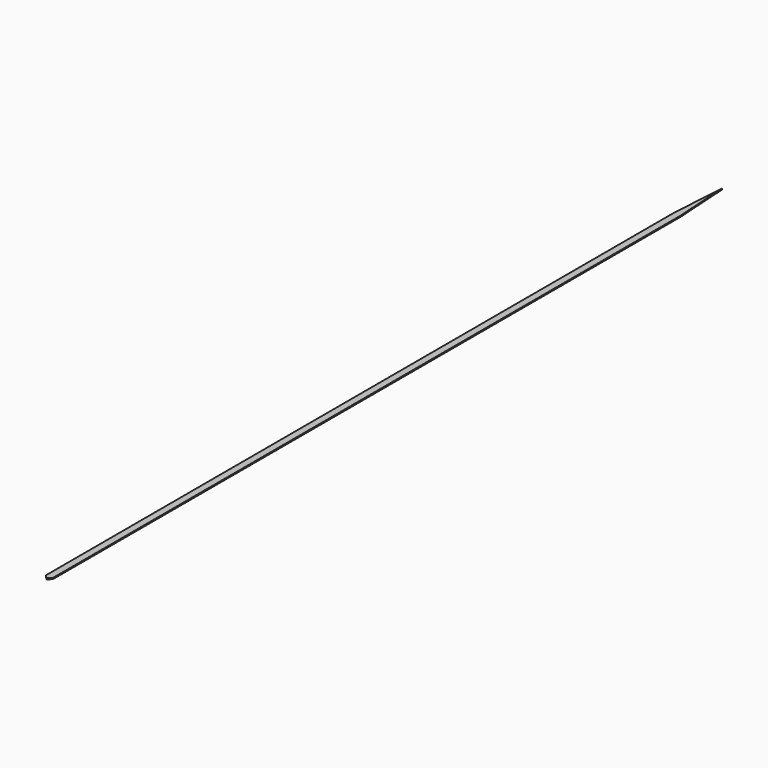
from build123d import *

# Parameters (mm, degrees)
F14_DEPTH = 1


with BuildPart() as f14:
    # F13 (on offset) → F14 (new body)
    with BuildSketch(Plane.XY.offset(-76)):
        Polygon((0, -751.526058), (0, 0), (-3.126378, -49.995076), (-3.126378, -747.989655), align=None)
    extrude(amount=-F14_DEPTH)

    # F15: F14 across face


with BuildPart() as f14_1:
    add(f14.part)
    add(f14.part.mirror(Plane(origin=(0, -375.763029, -76.5), x_dir=(0, 1, 0), z_dir=(1, 0, 0))))


solid = f14_1.part
